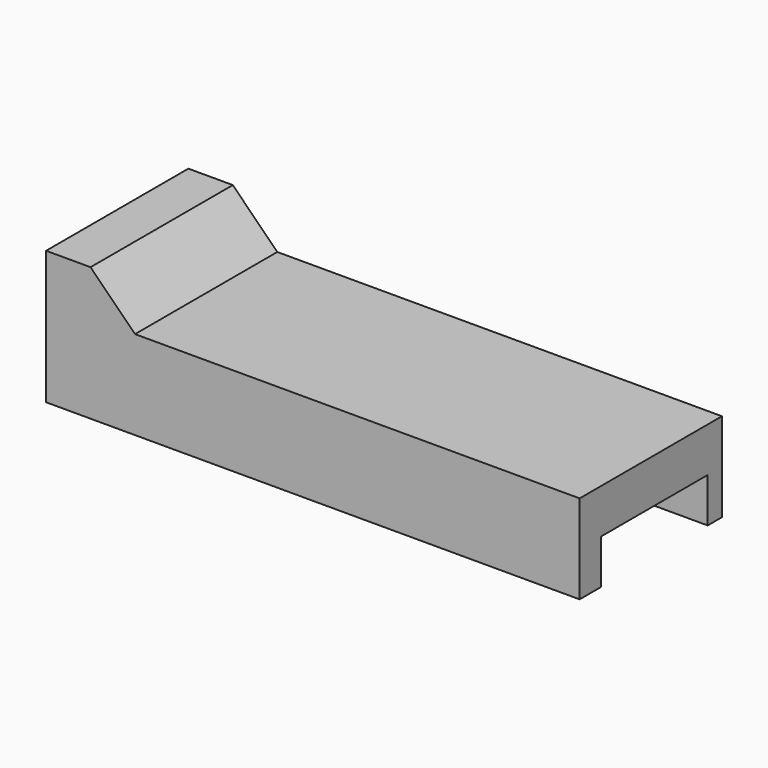
from build123d import *

# Parameters (mm, degrees)
F1_DEPTH      = 60
F3_DEPTH      = 25
F3_DEPTH_BACK = 25


with BuildPart() as f1:
    # F0 (on Right) → F1 (new body)
    with BuildSketch(Plane.YZ):
        Polygon((-2, 0), (0, 0), (0, 15), (-20, 15), (-20, 0), (-17, 0), (-17, 5), (-2, 5), align=None)
    extrude(amount=F1_DEPTH)

    # F2 (on Front) → F3 (cut, two sides)
    with BuildSketch(Plane.XZ) as f3_sk:
        Polygon((10, 10), (65.6480420604, 10), (62.5214437162, 17.478562476), (2.521437524, 17.478562476), align=None)
    extrude(amount=-F3_DEPTH, mode=Mode.SUBTRACT)
    extrude(f3_sk.sketch, amount=F3_DEPTH_BACK, mode=Mode.SUBTRACT)


solid = f1.part
